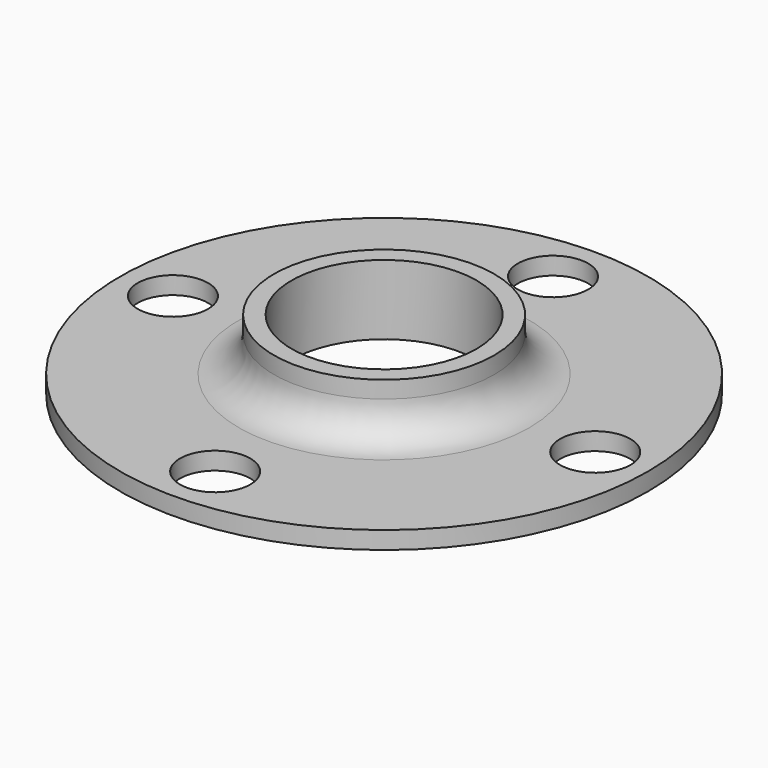
from build123d import *

# Parameters (mm, degrees)
F0_R     = 47.625
F0_R_2   = 16.7005
F1_DEPTH = 12.5984
F4_R     = 6.35
F5_DEPTH = 12.5994


with BuildPart() as f1:
    # F0 (on Top) → F1 (new body)
    with BuildSketch(Plane.XY):
        Circle(F0_R)
        Circle(F0_R_2, mode=Mode.SUBTRACT)
    extrude(amount=F1_DEPTH)

    # F2 (on Front) → F3 (revolve, cut)
    with BuildSketch(Plane.XZ):
        with BuildLine():
            Line((50.8, 3.175), (50.8, 12.5984))
            Line((50.8, 12.5984), (19.8755, 12.5984))
            Line((19.8755, 12.5984), (19.8755, 9.525))
            ThreePointArc((19.8755, 9.525), (21.735372, 5.034872), (26.2255, 3.175))
            Line((26.2255, 3.175), (50.8, 3.175))
        make_face()
    revolve(axis=Axis((0, 0, 6.2992), (0, 0, 1)), mode=Mode.SUBTRACT)

    # F4 (on face) → F5 (cut, through all)
    with BuildSketch(Plane(origin=(0, 0, 0), x_dir=(1, 0, 0), z_dir=(0, 0, -1))):
        with Locations((0, 38.1)):
            Circle(F4_R)
        with Locations((0, -38.1)):
            Circle(F4_R)
        with Locations((-38.1, 0)):
            Circle(F4_R)
        with Locations((38.1, 0)):
            Circle(F4_R)
    extrude(amount=-F5_DEPTH, mode=Mode.SUBTRACT)


solid = f1.part
